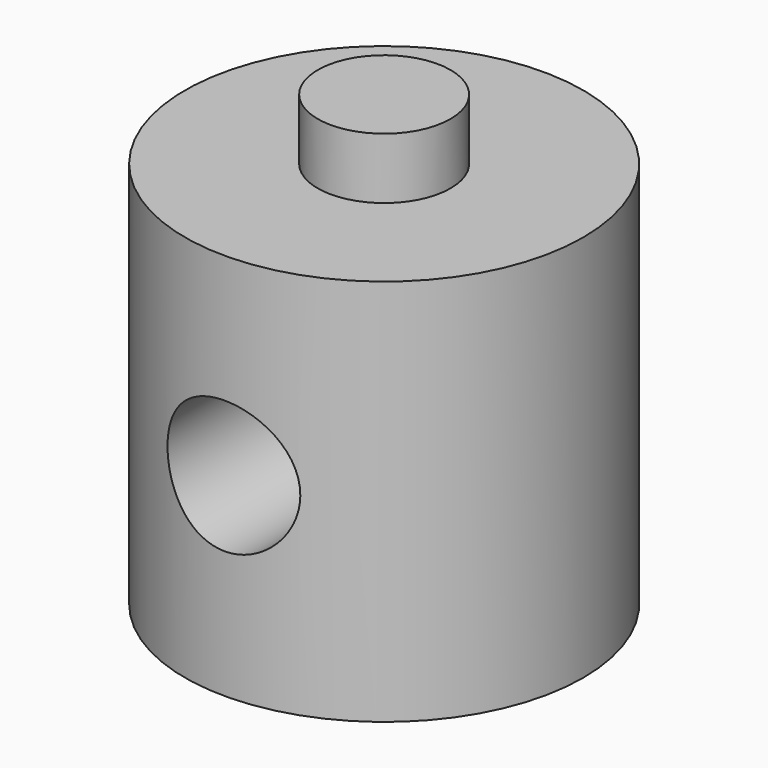
from build123d import *

# Parameters (mm, degrees)
F0_R          = 9.525
F1_DEPTH      = 18.542
F2_R          = 3.175
F3_DEPTH      = 2.921
F4_R          = 3.175
F5_DEPTH      = 2.921
F6_R          = 3.175
F7_DEPTH      = 25.4
F7_DEPTH_BACK = 25.4


with BuildPart() as f1:
    # F0 (on Top) → F1 (new body)
    with BuildSketch(Plane.XY):
        Circle(F0_R)
    extrude(amount=F1_DEPTH)

    # F2 (on face) → F3 (join)
    with BuildSketch(Plane.XY.offset(18.542)):
        Circle(F2_R)
    extrude(amount=F3_DEPTH)

    # F4 (on face) → F5 (join)
    with BuildSketch(Plane(origin=(0, 0, 0), x_dir=(1, 0, 0), z_dir=(0, 0, -1))):
        Circle(F4_R)
    extrude(amount=F5_DEPTH)

    # F6 (on Front) → F7 (cut, two sides)
    with BuildSketch(Plane.XZ) as f7_sk:
        with Locations((0, 9.271)):
            Circle(F6_R)
    extrude(amount=-F7_DEPTH, mode=Mode.SUBTRACT)
    extrude(f7_sk.sketch, amount=F7_DEPTH_BACK, mode=Mode.SUBTRACT)


solid = f1.part
